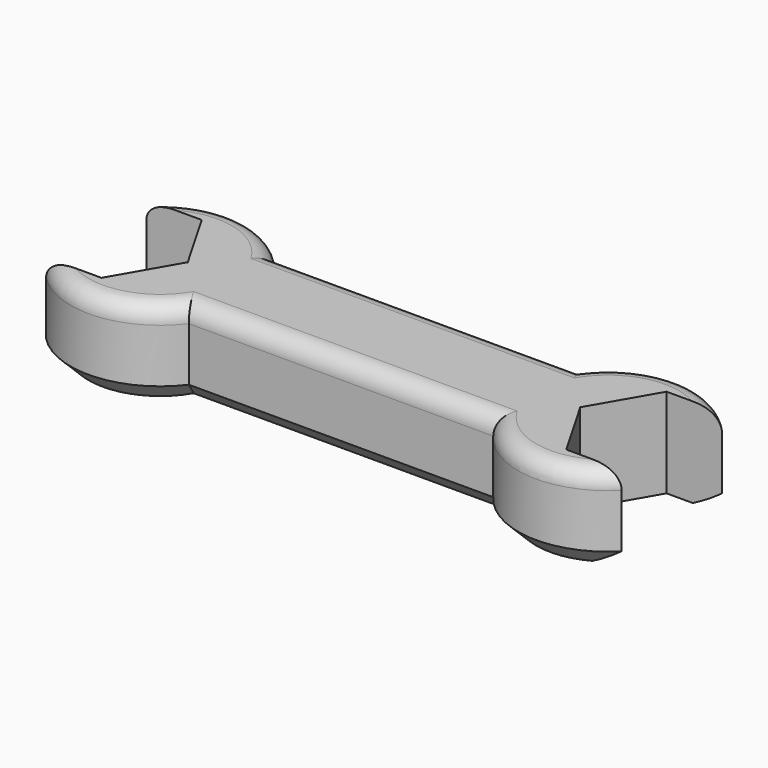
from build123d import *

# Parameters (mm, degrees)
F1_DEPTH = 6.35
F3_DEPTH = 12.701
F6_R     = 2.54
F7_SIZE  = 2.54


with BuildPart() as f1:
    # F0 (on Top) → F1 (new body, symmetric)
    with BuildSketch(Plane.XY):
        with BuildLine():
            Line((21.59, 7.62), (-21.59, 7.62))
            ThreePointArc((-21.59, 7.62), (-44.45, 0), (-21.59, -7.62))
            Line((-21.59, -7.62), (21.59, -7.62))
            ThreePointArc((21.59, -7.62), (44.45, 0), (21.59, 7.62))
        make_face()
    extrude(amount=F1_DEPTH, both=True)

    # F4: F3 across plane


with BuildPart() as f3:
    # F2 (on face) → F3 (new body, through all)
    with BuildSketch(Plane.XY.offset(6.35)):
        Polygon((-43.232644, 8.89), (-48.365288, 0), (-43.232644, -8.89), (-32.967356, -8.89), (-27.834712, 0), (-32.967356, 8.89), align=None)
    extrude(amount=-F3_DEPTH)


with BuildPart() as f1_1:
    add(f1.part)
    add(f3.part.mirror(Plane.YZ), mode=Mode.SUBTRACT)

    # F5: cut F3
    add(f3.part, mode=Mode.SUBTRACT)

    # F6
    f6_edges = [f1_1.edges().sort_by_distance(p)[0] for p in [
        (0, -7.62, 6.35),
        (-30.913065, 12.672393, 6.35),
        (-30.913065, -12.672393, 6.35),
        (30.913065, -12.672393, 6.35),
        (30.913065, 12.672393, 6.35),
        (0, 7.62, 6.35),
    ]]
    fillet(f6_edges, radius=F6_R)

    # F7
    f7_edges = [f1_1.edges().sort_by_distance(p)[0] for p in [
        (-30.913065, 12.672393, -6.35),
        (-30.913065, -12.672393, -6.35),
        (0, -7.62, -6.35),
        (30.913065, -12.672393, -6.35),
        (30.913065, 12.672393, -6.35),
        (0, 7.62, -6.35),
    ]]
    chamfer(f7_edges, length=F7_SIZE)


solid = f1_1.part
